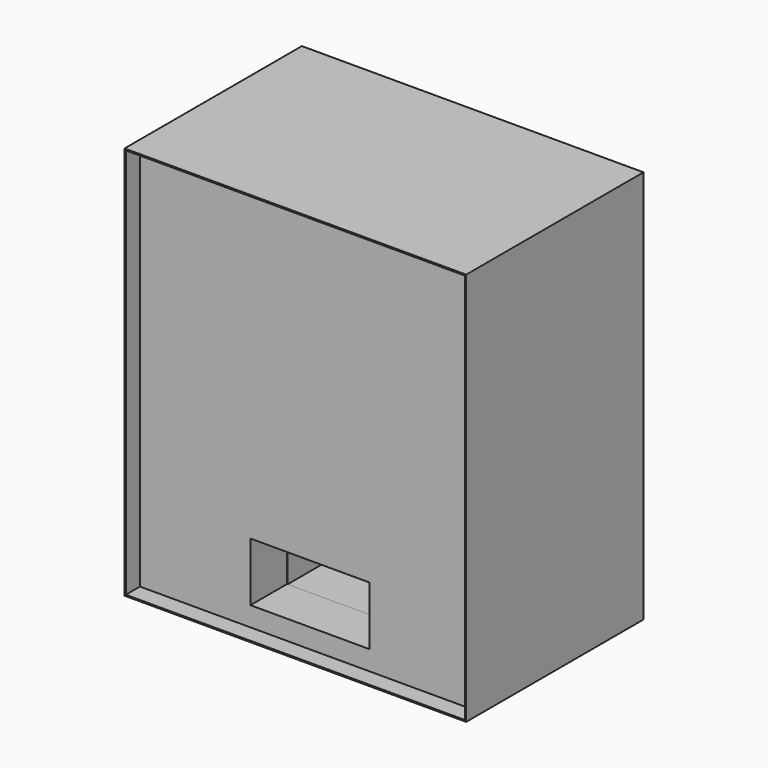
from build123d import *

# Parameters (mm, degrees)
F0_W      = 524
F0_H      = 604
F0_W_2    = 520
F0_H_2    = 600
F1_DEPTH  = 340
F2_W      = 310
F2_H      = 240
F2_W_2    = 180
F2_H_2    = 110
F2_H_3    = 5
F3_DEPTH  = 600
F2_W_3    = 65
F2_H_4    = 307.9086494446
F4_DEPTH  = 600
F5_DEPTH  = 600
F6_W      = 182.5336068869
F6_H      = 90
F7_DEPTH  = 70
F8_W      = 180
F8_H      = 29.6823031265
F9_DEPTH  = 110
F10_W     = 62.9086494446
F10_H     = 155
F11_DEPTH = 70
F12_DEPTH = 380
F13_W     = 110
F13_H     = 75
F14_DEPTH = 140
F15_W     = 110
F15_H     = 75.1196961854
F16_DEPTH = 140


with BuildPart() as f1:
    # F0 (on Front) → F1 (new body)
    with BuildSketch(Plane.XZ):
        with Locations((238.3513055446, 264.4152384256)):
            Rectangle(F0_W, F0_H)
        with Locations((238.3513055446, 264.4152384256)):
            Rectangle(F0_W_2, F0_H_2, mode=Mode.SUBTRACT)
    extrude(amount=F1_DEPTH)

    # F2 (on face) → F3 (join)
    with BuildSketch(Plane.XY.offset(-35.5847615744)):
        Polygon((-21.6486944554, -307.9086494446), (-21.6486944554, -312.9086494446), (498.3513055446, -312.9086494446), (498.3513055446, -307.9086494446), (463.3513055446, -307.9086494446), (398.3513055446, -307.9086494446), (393.3513055446, -307.9086494446), (83.3513055446, -307.9086494446), (78.3513055446, -307.9086494446), (13.3513055446, -307.9086494446), align=None)
        with Locations((238.3513055446, -187.9086494446)):
            Rectangle(F2_W, F2_H)
        with Locations((238.3513055446, -187.9086494446)):
            Rectangle(F2_W_2, F2_H_2, mode=Mode.SUBTRACT)
        with Locations((238.3513055446, -65.4086494446)):
            Rectangle(F2_W, F2_H_3)
    extrude(amount=F3_DEPTH)

    # F2 (on face) → F4 (join)
    with BuildSketch(Plane.XY.offset(-35.5847615744)):
        with Locations((45.8513055446, -153.9543247223)):
            Rectangle(F2_W_3, F2_H_4)
        with Locations((430.8513055446, -153.9543247223)):
            Rectangle(F2_W_3, F2_H_4)
    extrude(amount=F4_DEPTH)

    # F2 (on face) → F5 (join)
    with BuildSketch(Plane.XY.offset(-35.5847615744)):
        Polygon((78.3513055446, 0), (78.3513055446, -307.9086494446), (83.3513055446, -307.9086494446), (83.3513055446, -67.9086494446), (83.3513055446, -62.9086494446), (83.3513055446, 0), align=None)
        Polygon((393.3513055446, -307.9086494446), (398.3513055446, -307.9086494446), (398.3513055446, 0), (393.3513055446, 0), (393.3513055446, -62.9086494446), (393.3513055446, -67.9086494446), align=None)
    extrude(amount=F5_DEPTH)

    # F6 (on face) → F7 (cut)
    with BuildSketch(Plane.XZ.offset(312.9086494446)):
        with Locations((239.1115501523, 39.4152384256)):
            Rectangle(F6_W, F6_H)
    extrude(amount=-F7_DEPTH, mode=Mode.SUBTRACT)

    # F8 (on face) → F9 (join)
    with BuildSketch(Plane.XZ.offset(132.9086494446)):
        with Locations((238.3513055446, -20.7436100112)):
            Rectangle(F8_W, F8_H)
    extrude(amount=F9_DEPTH)

    # F10 (on face) → F11 (cut)
    with BuildSketch(Plane(origin=(393.3513055446, 0, 0), x_dir=(0, -1, 0), z_dir=(-1, 0, 0))):
        with Locations((31.4543247223, 99.7613327205)):
            Rectangle(F10_W, F10_H)
    extrude(amount=-F11_DEPTH, mode=Mode.SUBTRACT)

    # F10 (on face) → F12 (cut)
    with BuildSketch(Plane(origin=(393.3513055446, 0, 0), x_dir=(0, -1, 0), z_dir=(-1, 0, 0))):
        with Locations((31.4543247223, 99.7613327205)):
            Rectangle(F10_W, F10_H)
    extrude(amount=F12_DEPTH, mode=Mode.SUBTRACT)

    # F13 (on face) → F14 (cut)
    with BuildSketch(Plane.YZ.offset(148.3513055446)):
        with Locations((-187.9086494446, 526.9152384256)):
            Rectangle(F13_W, F13_H)
    extrude(amount=-F14_DEPTH, mode=Mode.SUBTRACT)

    # F15 (on face) → F16 (cut)
    with BuildSketch(Plane(origin=(328.3513055446, 0, 0), x_dir=(0, -1, 0), z_dir=(-1, 0, 0))):
        with Locations((187.9086494446, 526.8553903329)):
            Rectangle(F15_W, F15_H)
    extrude(amount=-F16_DEPTH, mode=Mode.SUBTRACT)


solid = f1.part
